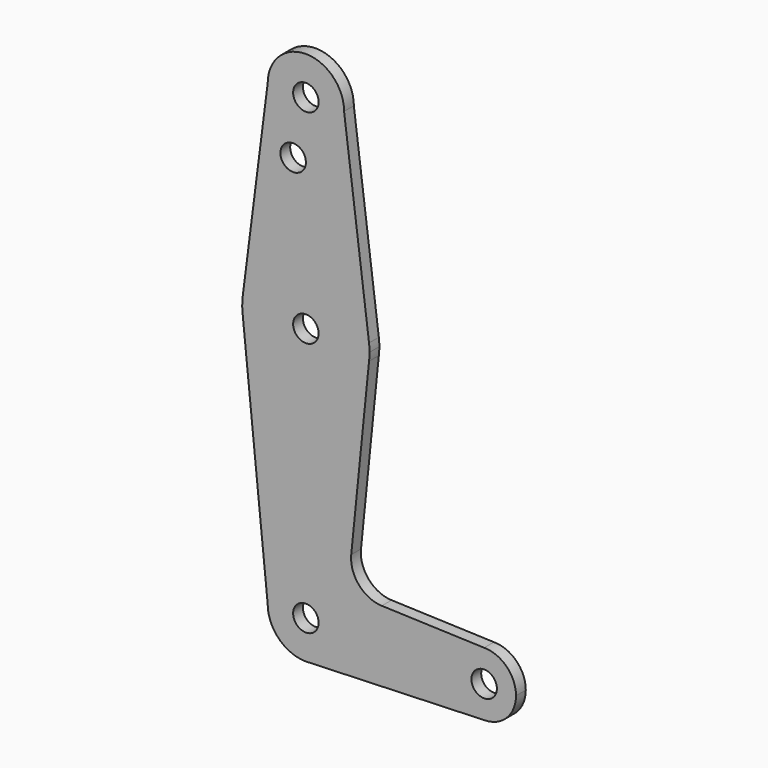
from build123d import *

# Parameters (mm, degrees)
F0_R     = 3.175
F1_DEPTH = 3.048


with BuildPart() as f1:
    # F0 (on Front) → F1 (new body)
    with BuildSketch(Plane.XZ):
        with BuildLine():
            ThreePointArc((-9.525, 114.3), (0, 104.775), (9.525, 114.3))
            ThreePointArc((9.525, 114.3), (0, 123.825), (-9.525, 114.3))
        make_face()
        with Locations((0, 114.3)):
            Circle(F0_R, mode=Mode.SUBTRACT)
        with BuildLine():
            Line((15.747457, 65.508289), (9.525, 114.3))
            ThreePointArc((9.525, 114.3), (0, 104.775), (-9.525, 114.3))
            Line((-9.525, 114.3), (-15.747457, 65.508289))
            ThreePointArc((-15.747457, 65.508289), (0, 79.375), (15.747457, 65.508289))
        make_face()
        with Locations((-3.175, 100.0252)):
            Circle(F0_R, mode=Mode.SUBTRACT)
        with BuildLine():
            ThreePointArc((15.875, 63.5), (15.843082, 64.506168), (15.747457, 65.508289))
            ThreePointArc((15.747457, 65.508289), (0, 79.375), (-15.747457, 65.508289))
            ThreePointArc((-15.747457, 65.508289), (-15.873668, 63.705667), (-15.794203, 61.90038))
            ThreePointArc((-15.794203, 61.90038), (-0.205667, 47.626332), (15.747457, 61.491711))
            ThreePointArc((15.747457, 61.491711), (15.843082, 62.493832), (15.875, 63.5))
        make_face()
        with Locations((0, 63.5)):
            Circle(F0_R, mode=Mode.SUBTRACT)
        with BuildLine():
            ThreePointArc((15.747457, 61.491711), (-0.205667, 47.626332), (-15.794203, 61.90038))
            Line((-15.794203, 61.90038), (-9.525, 0))
            ThreePointArc((-9.525, 0), (0, 9.525), (9.525, 0))
            ThreePointArc((9.525, 0), (6.970557, -6.491299), (0.677344, -9.500886))
            Line((0.677344, -9.500886), (44.732405, -7.932475))
            ThreePointArc((44.732405, -7.932475), (36.513756, -0.141225), (44.45, 7.9375))
            Line((44.45, 7.9375), (18.931462, 8.848876))
            ThreePointArc((18.931462, 8.848876), (13.223161, 11.56898), (11.305411, 17.594418))
            Line((11.305411, 17.594418), (15.747457, 61.491711))
        make_face()
        with BuildLine():
            ThreePointArc((9.525, 0), (0, 9.525), (-9.525, 0))
            ThreePointArc((-9.525, 0), (-6.735192, -6.735192), (0, -9.525))
            Line((0, -9.525), (0.677344, -9.500886))
            ThreePointArc((0.677344, -9.500886), (6.970557, -6.491299), (9.525, 0))
        make_face()
        Circle(F0_R, mode=Mode.SUBTRACT)
        with BuildLine():
            Line((0.677344, -9.500886), (0, -9.525))
            ThreePointArc((0, -9.525), (0.338886, -9.51897), (0.677344, -9.500886))
        make_face()
        with BuildLine():
            ThreePointArc((52.3875, 0), (50.06266, 5.61266), (44.45, 7.9375))
            ThreePointArc((44.45, 7.9375), (36.513756, -0.141225), (44.732405, -7.932475))
            ThreePointArc((44.732405, -7.932475), (50.161633, -5.51191), (52.3875, 0))
        make_face()
        with Locations((44.45, 0)):
            Circle(F0_R, mode=Mode.SUBTRACT)
    extrude(amount=F1_DEPTH)


solid = f1.part
